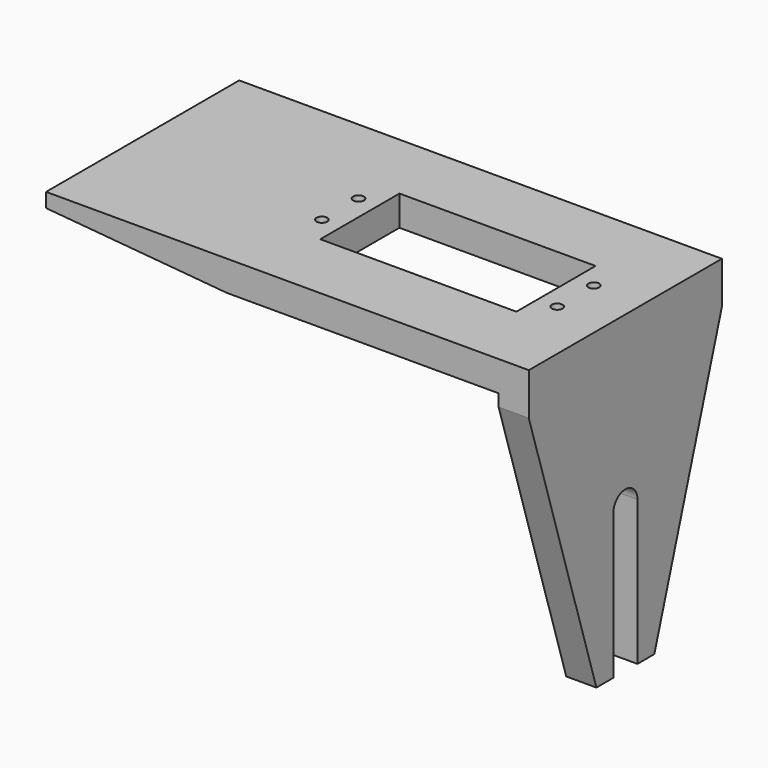
from build123d import *

# Parameters (mm, degrees)
F0_W     = 101.6
F0_H     = 50.8
F0_R     = 1.1303
F0_W_2   = 41.275
F0_H_2   = 20.828
F1_DEPTH = 6.35
F3_DEPTH = 50.801
F4_W     = 6.35
F4_H     = 50.8
F5_DEPTH = 59.69
F7_DEPTH = 6.35
F9_DEPTH = 6.35


with BuildPart() as f1:
    # F0 (on Top) → F1 (new body)
    with BuildSketch(Plane.XY):
        with Locations((50.8, 25.4)):
            Rectangle(F0_W, F0_H)
        with Locations((41.5798, 20.574)):
            Circle(F0_R, mode=Mode.SUBTRACT)
        with Locations((66.3575, 25.4)):
            Rectangle(F0_W_2, F0_H_2, mode=Mode.SUBTRACT)
        with Locations((91.1098, 20.574)):
            Circle(F0_R, mode=Mode.SUBTRACT)
        with Locations((41.5798, 30.226)):
            Circle(F0_R, mode=Mode.SUBTRACT)
        with Locations((91.1098, 30.226)):
            Circle(F0_R, mode=Mode.SUBTRACT)
    extrude(amount=F1_DEPTH)

    # F2 (on face) → F3 (cut, through all)
    with BuildSketch(Plane.XZ):
        Polygon((0, 3.333318), (0, 0), (38.1, 0), align=None)
    extrude(amount=-F3_DEPTH, mode=Mode.SUBTRACT)

    # F4 (on face) → F5 (join)
    with BuildSketch(Plane(origin=(0, 0, 0), x_dir=(1, 0, 0), z_dir=(0, 0, -1))):
        with Locations((98.425, -25.4)):
            Rectangle(F4_W, F4_H)
    extrude(amount=F5_DEPTH)

    # F6 (on face) → F7 (cut, through all)
    with BuildSketch(Plane(origin=(95.25, 0, 0), x_dir=(0, -1, 0), z_dir=(-1, 0, 0))):
        with BuildLine():
            Line((-28.575, -29.21), (-28.575, -59.69))
            Line((-28.575, -59.69), (-22.225, -59.69))
            Line((-22.225, -59.69), (-22.225, -29.21))
            ThreePointArc((-22.225, -29.21), (-25.4, -26.035), (-28.575, -29.21))
        make_face()
    extrude(amount=-F7_DEPTH, mode=Mode.SUBTRACT)

    # F8 (on face) → F9 (cut, through all)
    with BuildSketch(Plane.YZ.offset(101.6)):
        Polygon((50.8, -59.69), (50.8, -2.54), (33.02, -59.69), align=None)
        Polygon((0, -2.54), (0, -59.69), (17.78, -59.69), align=None)
    extrude(amount=-F9_DEPTH, mode=Mode.SUBTRACT)


solid = f1.part
